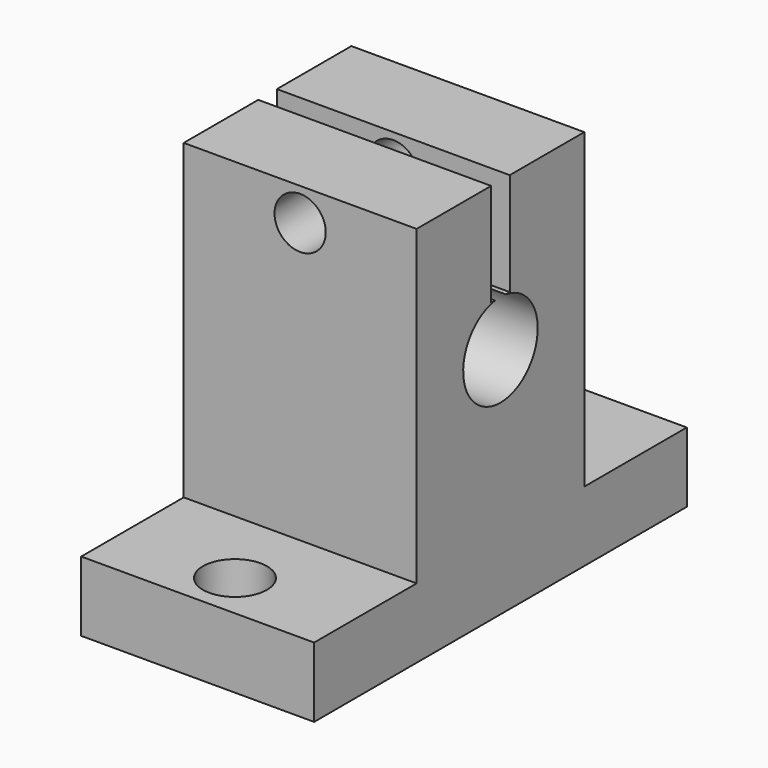
from build123d import *

# Parameters (mm, degrees)
SKETCH008_W              = 40
SKETCH008_H              = 20
SKETCH008_R              = 2.75
PAD005_DEPTH             = 6
SKETCH009_W              = 18
SKETCH009_H              = 20
PAD006_DEPTH             = 26.8
SKETCH010_R              = 4
POCKET001_DEPTH          = 20.001
SKETCH011_W              = 2
SKETCH011_H              = 8.8415096984
POCKET002_DEPTH          = 20.001
SKETCH012_R              = 2.2
POCKET003_DEPTH          = 29.001
CLONE011_PLACEMENT_ANGLE = 90


with BuildPart() as part:
    # Sketch008 → Pad005 (new body)
    with BuildSketch(Plane.XY):
        Rectangle(SKETCH008_W, SKETCH008_H)
        with Locations((-16, 0)):
            Circle(SKETCH008_R, mode=Mode.SUBTRACT)
        with Locations((16, 0)):
            Circle(SKETCH008_R, mode=Mode.SUBTRACT)
    extrude(amount=PAD005_DEPTH)

    # Sketch009 (on Face8 of Pad005) → Pad006 (join)
    with BuildSketch(Plane.XY.offset(6)):
        Rectangle(SKETCH009_W, SKETCH009_H)
    extrude(amount=PAD006_DEPTH)

    # Sketch010 (on Face14 of Pad006) → Pocket001 (cut, through all)
    with BuildSketch(Plane.XZ.offset(10)):
        with Locations((0, 20)):
            Circle(SKETCH010_R)
    extrude(amount=-POCKET001_DEPTH, mode=Mode.SUBTRACT)

    # Sketch011 (on Face15 of Pocket001) → Pocket002 (cut, through all)
    with BuildSketch(Plane.XZ.offset(10)):
        with Locations((0, 28.3792451508)):
            Rectangle(SKETCH011_W, SKETCH011_H)
    extrude(amount=-POCKET002_DEPTH, mode=Mode.SUBTRACT)

    # Sketch012 (on Face12 of Pocket002) → Pocket003 (cut, through all)
    with BuildSketch(Plane.YZ.offset(9)):
        with Locations((0, 30)):
            Circle(SKETCH012_R)
    extrude(amount=-POCKET003_DEPTH, mode=Mode.SUBTRACT)


with BuildPart() as part_1:
    # Clone011 placement: moved
    add(part.part.moved(Location((10, -100, 10))).rotate(Axis((10, -100, 10), (0, 0, 1)), CLONE011_PLACEMENT_ANGLE))


with BuildPart() as part_2:
    # Clone022 placement: moved
    add(part_1.part.moved(Location((0, -200, 0))))


with BuildPart() as part_3:
    # Clone023 placement: moved
    add(part_2.part.moved(Location((-480, 0, 0))))


solid = part_3.part
